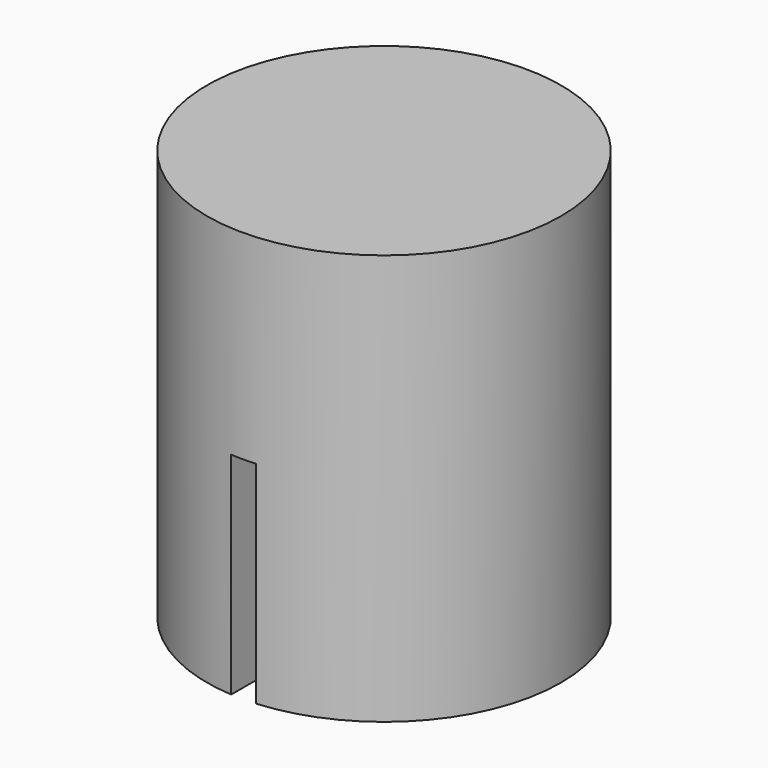
from build123d import *

# Parameters (mm, degrees)
F0_R     = 150.931089
F1_DEPTH = 350
F2_R     = 75.554982
F3_DEPTH = 200
F4_W     = 21.125047
F4_H     = 119.437709
F5_DEPTH = 180


with BuildPart() as f1:
    # F0 (on Top) → F1 (new body)
    with BuildSketch(Plane.XY):
        Circle(F0_R)
    extrude(amount=F1_DEPTH)

    # F2 (on face) → F3 (cut)
    with BuildSketch(Plane(origin=(0, 0, 0), x_dir=(1, 0, 0), z_dir=(0, 0, -1))):
        Circle(F2_R)
    extrude(amount=-F3_DEPTH, mode=Mode.SUBTRACT)

    # F4 (on face) → F5 (cut)
    with BuildSketch(Plane(origin=(0, 0, 0), x_dir=(1, 0, 0), z_dir=(0, 0, -1))):
        with Locations((0.812509, 118.625202)):
            Rectangle(F4_W, F4_H)
    extrude(amount=-F5_DEPTH, mode=Mode.SUBTRACT)


solid = f1.part
